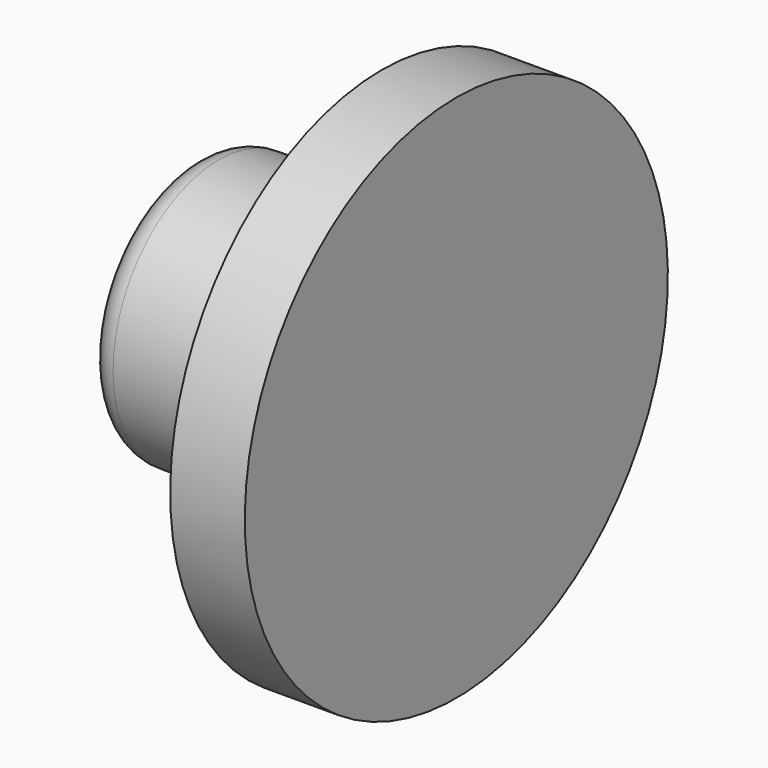
from build123d import *

# Parameters (mm, degrees)
F2_R = 2.032


with BuildPart() as f1:
    # F0 (on Front) → F1 (revolve)
    with BuildSketch(Plane.XZ):
        with BuildLine():
            Line((-49.005, 0), (-40.005, 0))
            ThreePointArc((-40.005, 0), (-39.686229, 5.040161), (-38.734997, 10))
            Line((-38.734997, 10), (-45.831212, 10))
            Line((-45.831212, 10), (-49.005, 10))
            Line((-49.005, 10), (-49.005, 0))
        make_face()
        with BuildLine():
            ThreePointArc((-38.734997, 10), (-39.686229, 5.040161), (-40.005, 0))
            Line((-40.005, 0), (-29.005, 0))
            Line((-29.005, 0), (-29.005, 20))
            Line((-29.005, 20), (-34.64679, 20))
            ThreePointArc((-34.64679, 20), (-37.03001, 15.138638), (-38.734997, 10))
        make_face()
    revolve(axis=Axis((-39.005, 0, 0), (-1, 0, 0)))

    # F2
    f2_edges = [f1.edges().sort_by_distance(p)[0] for p in [
        (-49.005, 0, -10),
    ]]
    fillet(f2_edges, radius=F2_R)


solid = f1.part
